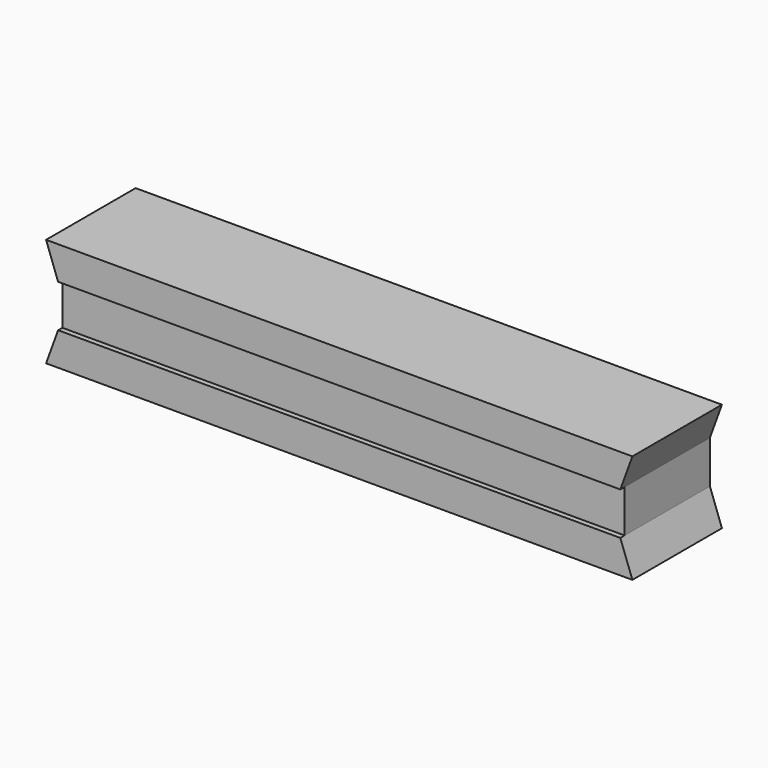
from build123d import *

# Parameters (mm, degrees)
F1_DEPTH = 25.4
F3_DEPTH = 1.27
F4_DEPTH = 1.27


with BuildPart() as f1:
    # F0 (on Front) → F1 (new body)
    with BuildSketch(Plane.XZ):
        Polygon((66.279829, 16.627325), (-73.420171, 16.627325), (-70.553358, 8.750822), (-70.553358, -1.409178), (-73.420171, -9.285682), (66.279829, -9.285682), (63.413016, -1.409178), (63.413016, 8.750822), align=None)
    extrude(amount=F1_DEPTH)

    # F2 (on face) → F3 (join)
    with BuildSketch(Plane.XZ.offset(25.4)):
        Polygon((-73.420171, 16.627325), (-70.553358, 8.750822), (63.413016, 8.750822), (66.279829, 16.627325), align=None)
    extrude(amount=F3_DEPTH)

    # F2 (on face) → F4 (join)
    with BuildSketch(Plane.XZ.offset(25.4)):
        Polygon((63.413016, -1.409178), (-70.553358, -1.409178), (-73.420171, -9.285682), (66.279829, -9.285682), align=None)
    extrude(amount=F4_DEPTH)


solid = f1.part
